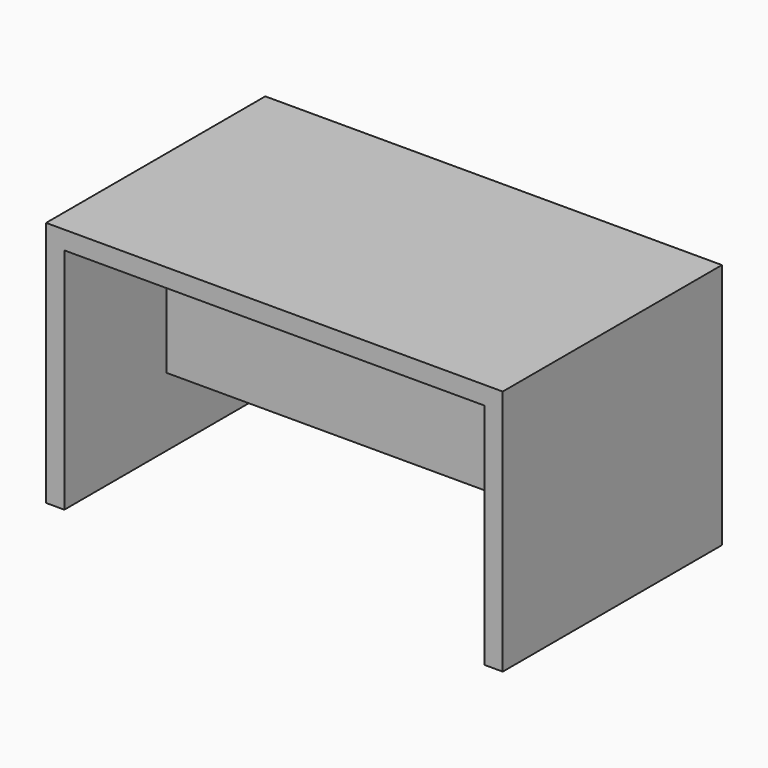
from build123d import *

# Parameters (mm, degrees)
F0_W     = 500
F0_H     = 20
F4_DEPTH = 150
F1_W     = 20
F1_H     = 250
F5_DEPTH = 150
F2_W     = 20
F2_H     = 250
F6_DEPTH = 150
F3_W     = 460
F3_H     = 175
F7_DEPTH = 10


with BuildPart() as f4:
    # F0 (on Front) → F4 (new body, symmetric)
    with BuildSketch(Plane.XZ):
        Rectangle(F0_W, F0_H)
    extrude(amount=F4_DEPTH, both=True)

    # F1 (on Front) → F5 (join, symmetric)
    with BuildSketch(Plane.XZ):
        with Locations((-240, -135)):
            Rectangle(F1_W, F1_H)
    extrude(amount=F5_DEPTH, both=True)

    # F2 (on Front) → F6 (join, symmetric)
    with BuildSketch(Plane.XZ):
        with Locations((240, -135)):
            Rectangle(F2_W, F2_H)
    extrude(amount=F6_DEPTH, both=True)

    # F3 (on Front) → F7 (join, symmetric)
    with BuildSketch(Plane.XZ):
        with Locations((0, -97.5)):
            Rectangle(F3_W, F3_H)
    extrude(amount=F7_DEPTH, both=True)


solid = f4.part
